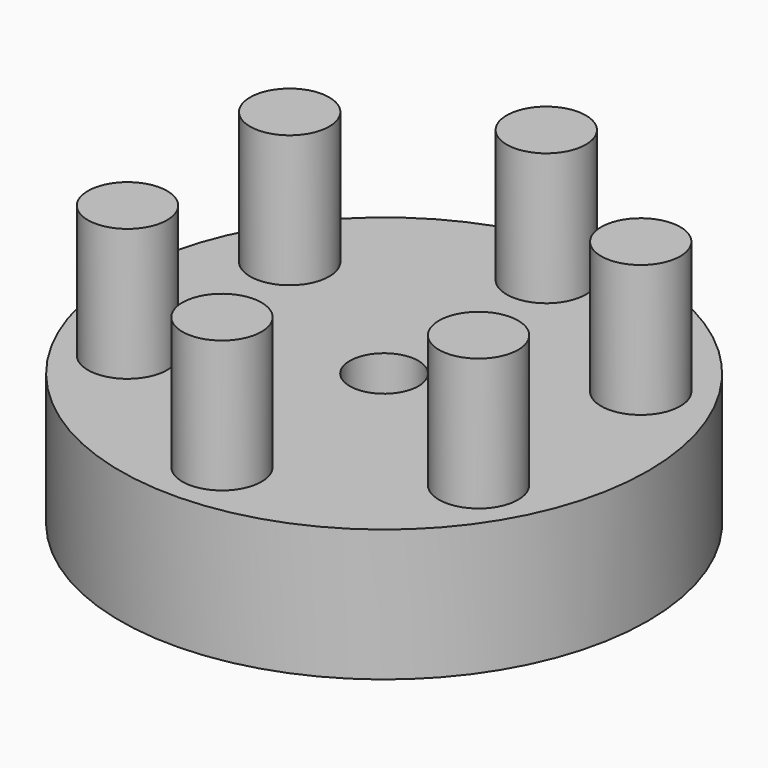
from build123d import *

# Parameters (mm, degrees)
F0_R     = 25.4
F2_DEPTH = 12.7
F1_R     = 3.81
F3_DEPTH = 25.4
F4_R     = 3.302
F5_DEPTH = 25.4


with BuildPart() as f2:
    # F0 (on Top) → F2 (new body)
    with BuildSketch(Plane.XY):
        Circle(F0_R)
    extrude(amount=F2_DEPTH)

    # F1 (on Top) → F3 (join)
    with BuildSketch(Plane.XY):
        with Locations((0, 19.503224)):
            Circle(F1_R)
        with Locations((-16.890287, 9.751612)):
            Circle(F1_R)
        with Locations((-16.890287, -9.751612)):
            Circle(F1_R)
        with Locations((0, -19.503224)):
            Circle(F1_R)
        with Locations((16.890287, -9.751612)):
            Circle(F1_R)
        with Locations((16.890287, 9.751612)):
            Circle(F1_R)
    extrude(amount=F3_DEPTH)

    # F4 (on Top) → F5 (cut)
    with BuildSketch(Plane.XY):
        Circle(F4_R)
    extrude(amount=F5_DEPTH, mode=Mode.SUBTRACT)


solid = f2.part
